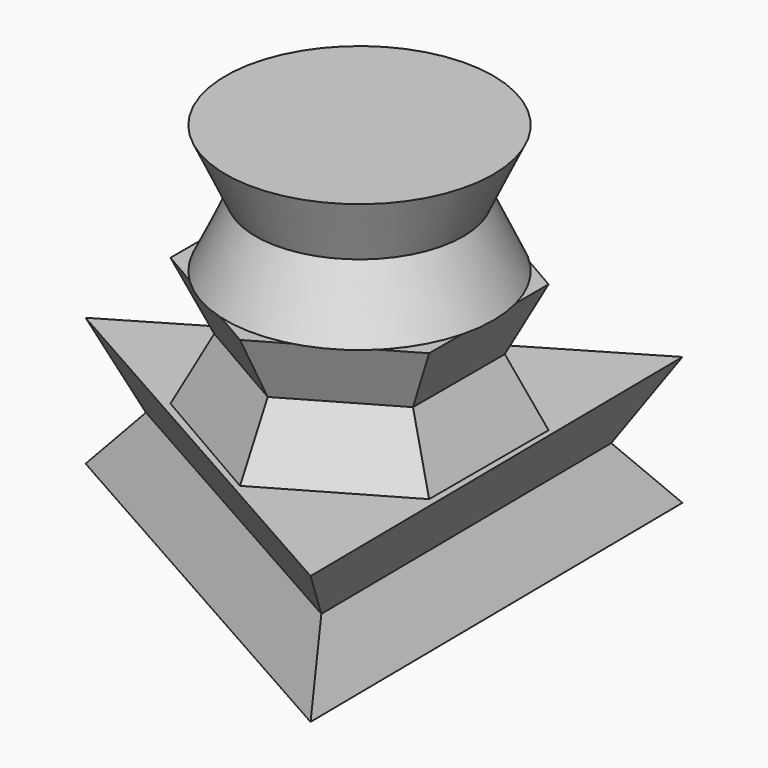
from build123d import *

# Parameters (mm, degrees)
F5_DEPTH = 6.35
F5_TAPER = -25
F4_R     = 10.2617339916


with BuildPart() as f5:
    # F2 (on Top) → F5 (new body, symmetric)
    with BuildSketch(Plane.XY):
        Polygon((-20.9499830359, -0.2093548496), (10.6562981361, -18.0385400932), (10.2936848998, 18.2478949428), align=None)
    extrude(amount=F5_DEPTH, both=True, taper=F5_TAPER)


with BuildPart() as f5b:
    # F4 (on offset) → F5, piece 2 (new body, symmetric)
    with BuildSketch(Plane.XY.offset(25.4)):
        Circle(F4_R)
    extrude(amount=F5_DEPTH, both=True, taper=F5_TAPER)


with BuildPart() as f5c:
    # F3 (on offset) → F5, piece 3 (new body, symmetric)
    with BuildSketch(Plane.XY.offset(12.7)):
        Polygon((-9.8257893696, 5.6729221376), (-9.8257893696, -5.6729221376), (0, -11.3458442751), (9.8257893696, -5.6729221376), (9.8257893696, 5.6729221376), (0, 11.3458442751), align=None)
    extrude(amount=F5_DEPTH, both=True, taper=F5_TAPER)


solid = Compound([f5.part, f5b.part, f5c.part])
